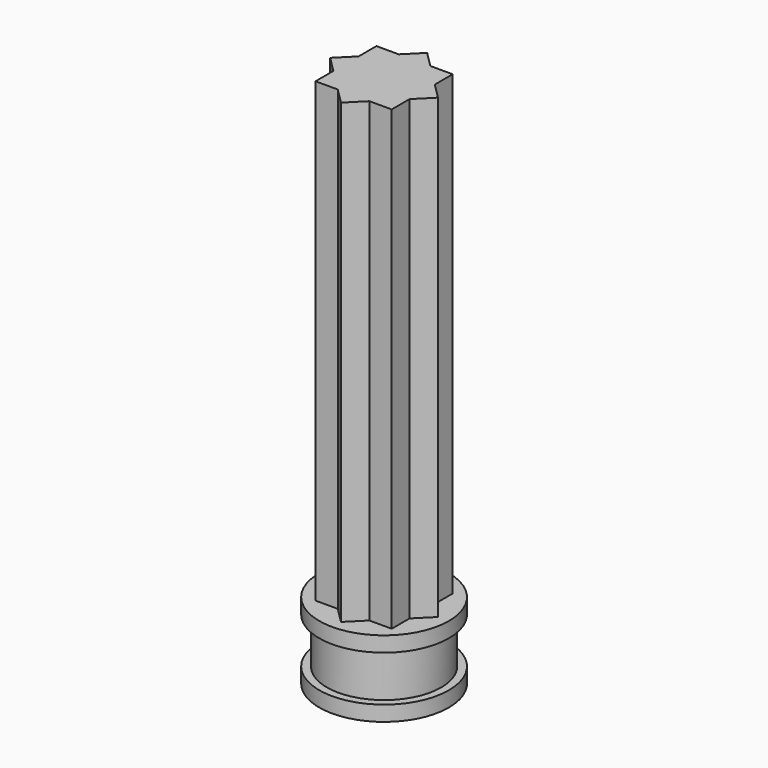
from build123d import *

# Parameters (mm, degrees)
F1_DEPTH  = 30
F2_R      = 4.25
F3_DEPTH  = 5
F5_R      = 4.25
F5_R_2    = 3.75
F6_DEPTH  = 3
F7_R      = 1.075
F8_DEPTH  = 5
F9_R      = 3
F10_DEPTH = 1.1


with BuildPart() as f1:
    # F0 (on Top) → F1 (new body)
    with BuildSketch(Plane.XY):
        Polygon((-2.5, -1.0355339059), (-2.5, -2.5), (-1.0355339059, -2.5), align=None)
        Polygon((-2.5, -1.0355339059), (-1.0355339059, -2.5), (1.0355339059, -2.5), (2.5, -1.0355339059), (2.5, 1.0355339059), (1.0355339059, 2.5), (-1.0355339059, 2.5), (-2.5, 1.0355339059), align=None)
        Polygon((1.0355339059, -2.5), (-1.0355339059, -2.5), (0, -3.5355339059), align=None)
        Polygon((-3.5355339059, 0), (-2.5, -1.0355339059), (-2.5, 1.0355339059), align=None)
        Polygon((2.5, -1.0355339059), (1.0355339059, -2.5), (2.5, -2.5), align=None)
        Polygon((-2.5, 2.5), (-2.5, 1.0355339059), (-1.0355339059, 2.5), align=None)
        Polygon((2.5, 1.0355339059), (2.5, -1.0355339059), (3.5355339059, 0), align=None)
        Polygon((0, 3.5355339059), (-1.0355339059, 2.5), (1.0355339059, 2.5), align=None)
        Polygon((1.0355339059, 2.5), (2.5, 1.0355339059), (2.5, 2.5), align=None)
    extrude(amount=F1_DEPTH)

    # F2 (on face) → F3 (join)
    with BuildSketch(Plane(origin=(0, 0, 0), x_dir=(1, 0, 0), z_dir=(0, 0, -1))):
        Circle(F2_R)
    extrude(amount=F3_DEPTH)

    # F5 (on offset) → F6 (cut)
    with BuildSketch(Plane(origin=(0, 0, -4), x_dir=(1, 0, 0), z_dir=(0, 0, -1))):
        Circle(F5_R)
        Circle(F5_R_2, mode=Mode.SUBTRACT)
    extrude(amount=-F6_DEPTH, mode=Mode.SUBTRACT)

    # F7 (on Top) → F8 (cut)
    with BuildSketch(Plane.XY):
        Circle(F7_R)
    extrude(amount=-F8_DEPTH, mode=Mode.SUBTRACT)

    # F9 (on face) → F10 (cut)
    with BuildSketch(Plane(origin=(0, 0, -5), x_dir=(1, 0, 0), z_dir=(0, 0, -1))):
        Circle(F9_R)
    extrude(amount=-F10_DEPTH, mode=Mode.SUBTRACT)


solid = f1.part
